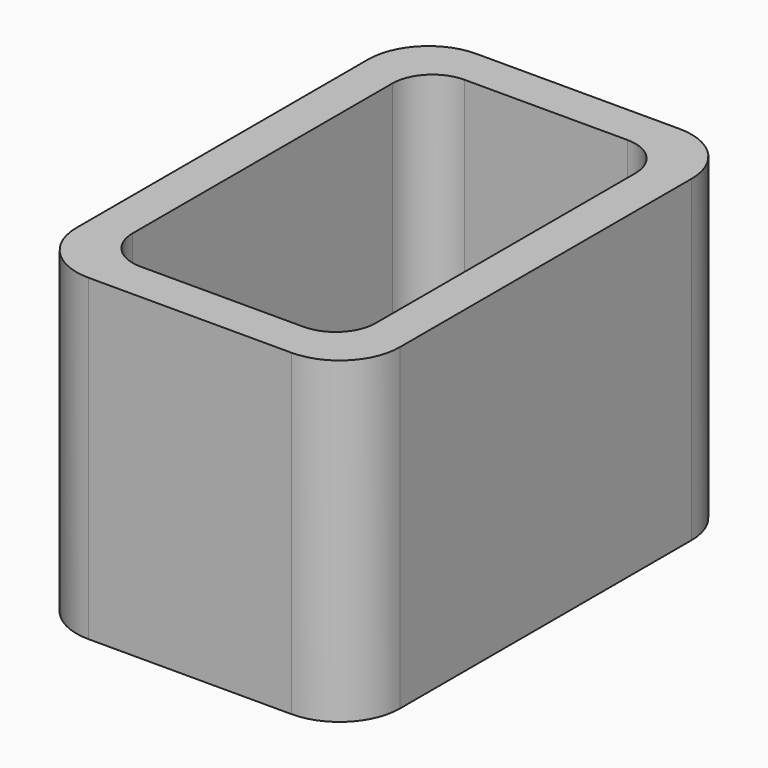
from build123d import *

# Parameters (mm, degrees)
EXTRUDE_DEPTH = 50


with BuildPart() as part:
    # Sketch → Extrude (new body)
    with BuildSketch(Plane.XY):
        with BuildLine():
            Line((-15.95, 38.1), (15.95, 38.1))
            ThreePointArc((25.4, 28.65), (22.632159, 35.332159), (15.95, 38.1))
            Line((25.4, 28.65), (25.4, -28.65))
            ThreePointArc((15.95, -38.1), (22.632159, -35.332159), (25.4, -28.65))
            Line((15.95, -38.1), (-15.95, -38.1))
            ThreePointArc((-25.4, -28.65), (-22.632159, -35.332159), (-15.95, -38.1))
            Line((-25.4, -28.65), (-25.4, 28.65))
            ThreePointArc((-15.95, 38.1), (-22.632159, 35.332159), (-25.4, 28.65))
        make_face()
        with BuildLine():
            Line((-12.8, 31.8), (12.8, 31.8))
            ThreePointArc((19.1, 25.5), (17.254773, 29.954773), (12.8, 31.8))
            Line((19.1, 25.5), (19.1, -25.5))
            ThreePointArc((12.8, -31.8), (17.254773, -29.954773), (19.1, -25.5))
            Line((12.8, -31.8), (-12.8, -31.8))
            ThreePointArc((-19.1, -25.5), (-17.254773, -29.954773), (-12.8, -31.8))
            Line((-19.1, -25.5), (-19.1, 25.5))
            ThreePointArc((-12.8, 31.8), (-17.254773, 29.954773), (-19.1, 25.5))
        make_face(mode=Mode.SUBTRACT)
    extrude(amount=EXTRUDE_DEPTH)


solid = part.part
